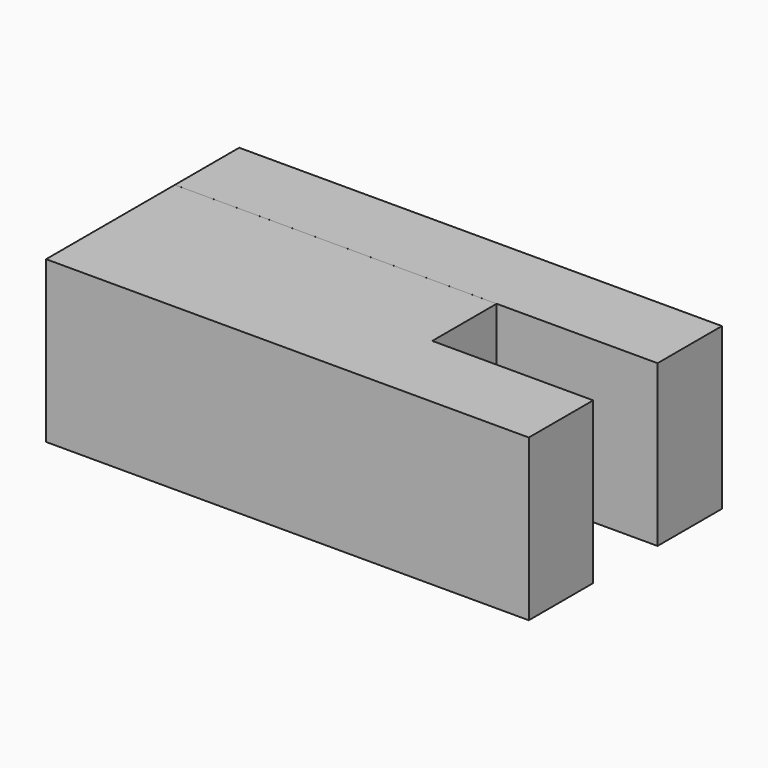
from build123d import *

# Parameters (mm, degrees)
F0_W     = 152.4
F0_H     = 50.8
F1_DEPTH = 25.4
F2_W     = 25.4
F2_H     = 50.8
F3_DEPTH = 101.6
F4_W     = 25.4
F4_H     = 50.8
F5_DEPTH = 152.4


with BuildPart() as f1:
    # F0 (on Front) → F1 (new body)
    with BuildSketch(Plane.XZ):
        with Locations((76.2, 25.4)):
            Rectangle(F0_W, F0_H)
    extrude(amount=F1_DEPTH)

    # F2 (on Right) → F3 (join)
    with BuildSketch(Plane.YZ):
        with Locations((12.7, 25.4)):
            Rectangle(F2_W, F2_H)
    extrude(amount=F3_DEPTH)


with BuildPart() as f5:
    # F4 (on Right) → F5 (new body)
    with BuildSketch(Plane.YZ):
        with Locations((38.104634, 25.4)):
            Rectangle(F4_W, F4_H)
    extrude(amount=F5_DEPTH)


solid = Compound([f1.part, f5.part])
